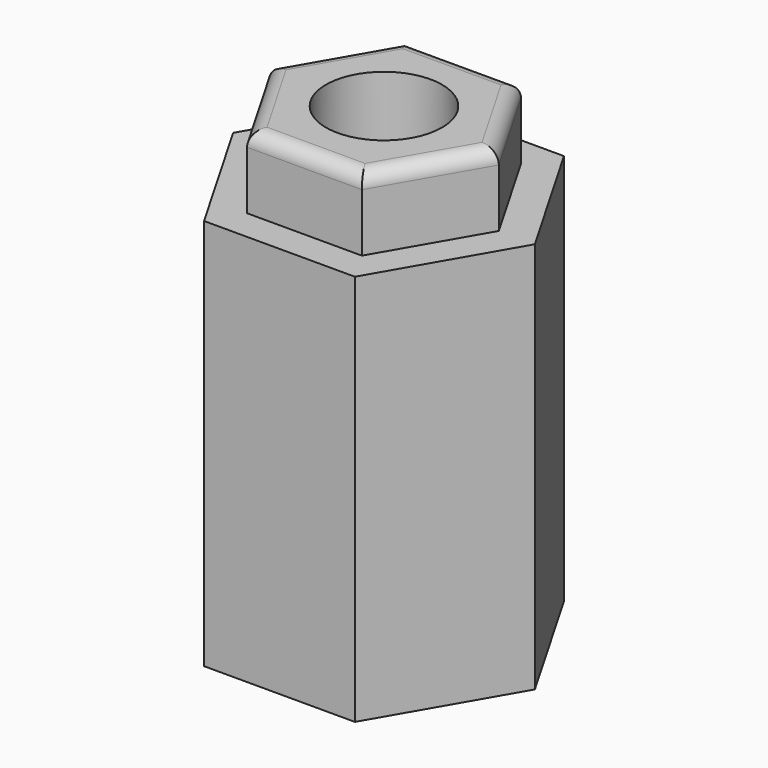
from build123d import *

# Parameters (mm, degrees)
F1_DEPTH = 27
F2_R     = 4
F3_DEPTH = 2
F4_R     = 4
F5_DEPTH = 5
F6_R     = 1


with BuildPart() as f1:
    # F0 (on Top) → F1 (new body)
    with BuildSketch(Plane.XY):
        Polygon((5.196152, 9), (-5.196152, 9), (-10.392305, 0), (-5.196152, -9), (5.196152, -9), (10.392305, 0), align=None)
        Polygon((-8.082904, 0), (-4.041452, 7), (4.041452, 7), (8.082904, 0), (4.041452, -7), (-4.041452, -7), align=None, mode=Mode.SUBTRACT)
    extrude(amount=F1_DEPTH)

    # F2 (on face) → F3 (join)
    with BuildSketch(Plane.XY.offset(27)):
        Polygon((5.196152, 9), (-5.196152, 9), (-10.392305, 0), (-5.196152, -9), (5.196152, -9), (10.392305, 0), align=None)
        Circle(F2_R, mode=Mode.SUBTRACT)
    extrude(amount=-F3_DEPTH)

    # F4 (on face) → F5 (join)
    with BuildSketch(Plane.XY.offset(27)):
        Polygon((3.954849, 6.85), (-3.954849, 6.85), (-7.909699, 0), (-3.954849, -6.85), (3.954849, -6.85), (7.909699, 0), align=None)
        Circle(F4_R, mode=Mode.SUBTRACT)
    extrude(amount=F5_DEPTH)

    # F6
    f6_edges = [f1.edges().sort_by_distance(p)[0] for p in [
        (0, 6.85, 32),
        (-5.932274, 3.425, 32),
        (-5.932274, -3.425, 32),
        (0, -6.85, 32),
        (5.932274, -3.425, 32),
        (5.932274, 3.425, 32),
    ]]
    fillet(f6_edges, radius=F6_R)


solid = f1.part
